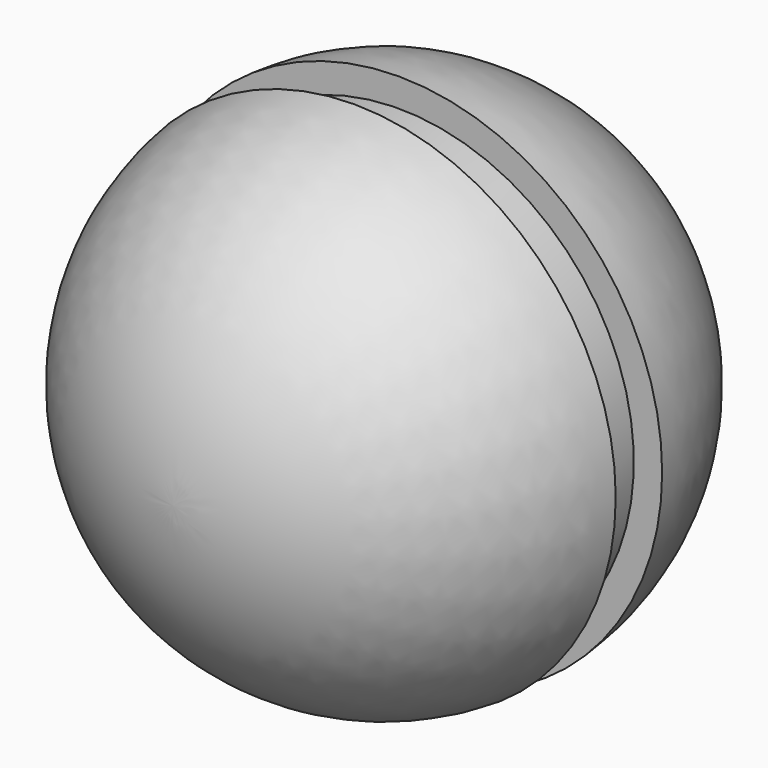
from build123d import *


with BuildPart() as f1:
    # F0 (on Top) → F1 (revolve)
    with BuildSketch(Plane.XY):
        with BuildLine():
            Line((0, -4.188164), (0, 75.153559))
            ThreePointArc((0, 75.153559), (-27.045282, 64.505619), (-39.572274, 38.277764))
            Line((-39.572274, 38.277764), (-35.315692, 38.277764))
            Line((-35.315692, 38.277764), (-35.315692, 29.920417))
            Line((-35.315692, 29.920417), (-39.27898, 29.920417))
            ThreePointArc((-39.27898, 29.920417), (-26.010736, 5.529086), (0, -4.188164))
        make_face()
    revolve(axis=Axis((0, 35.482697, 0), (0, 1, 0)))


solid = f1.part
